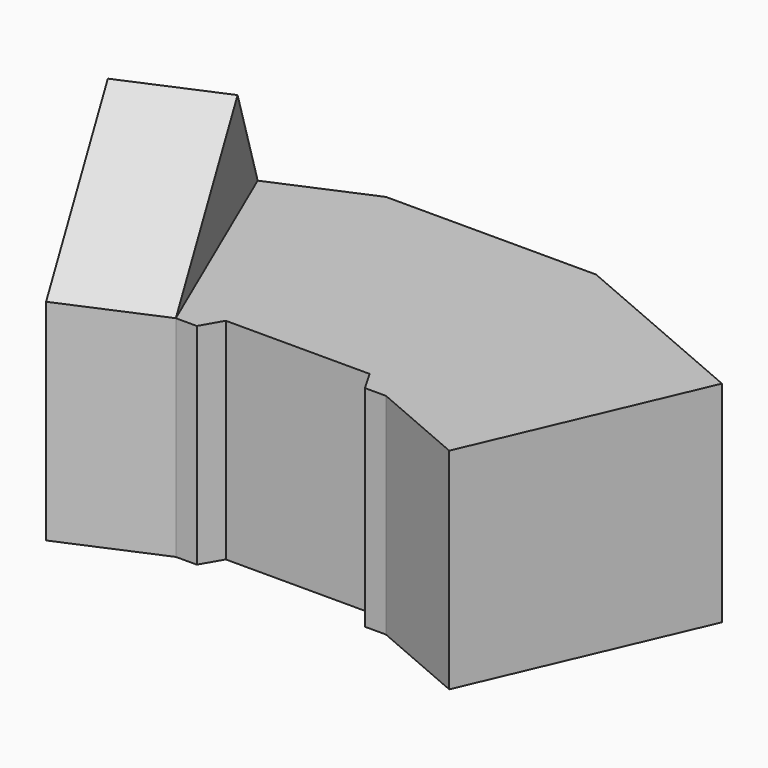
from build123d import *

# Parameters (mm, degrees)
F1_DEPTH = 508
F3_DEPTH = 254


with BuildPart() as f1:
    # F0 (on Top) → F1 (new body)
    with BuildSketch(Plane.XY):
        Polygon((-233.294552, -100.447259), (0, 0), (0, 635), (-463.942174, 435.245143), align=None)
        Polygon((0, 635), (0, 0), (50.8, 0), (80.129394, 50.8), (254, 50.8), (254, 635), align=None)
        Polygon((508, 635), (254, 635), (254, 50.8), (427.870606, 50.8), (457.2, 0), (508, 0), align=None)
        Polygon((971.942174, 435.245143), (508, 635), (508, 0), (741.294552, -100.447259), align=None)
    extrude(amount=F1_DEPTH)

    # F2 (on face) → F3 (join)
    with BuildSketch(Plane(origin=(-233.294552, -100.447259, 0), x_dir=(0.395462, -0.918482, 0), z_dir=(-0.918482, -0.395462, 0))):
        Polygon((-583.23638, 508), (0, 508), (-439.940905, 762), align=None)
    extrude(amount=-F3_DEPTH)


solid = f1.part
